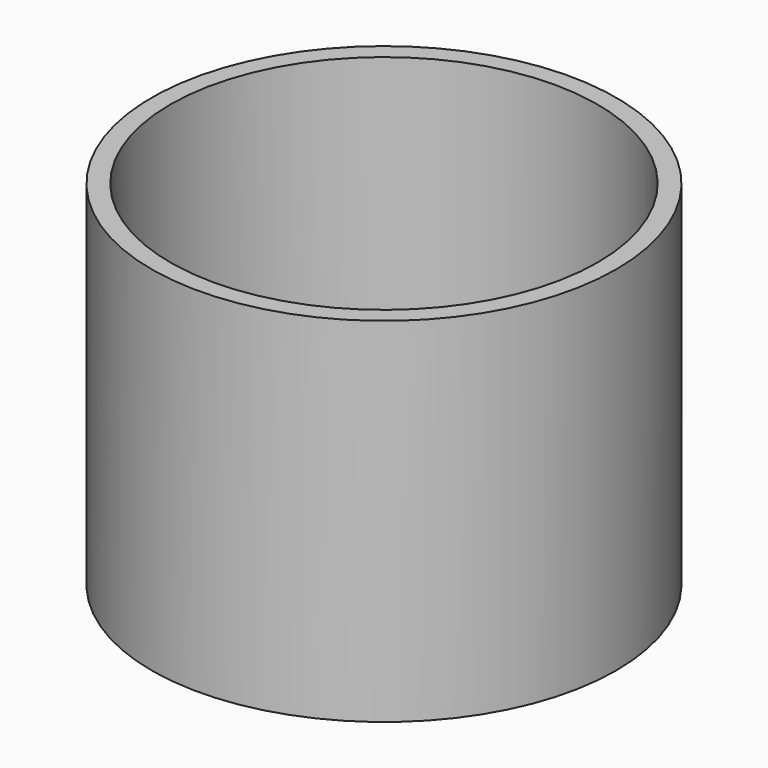
from build123d import *

# Parameters (mm, degrees)
F0_R     = 63.5
F1_DEPTH = 48.26
F2_R     = 58.42
F3_DEPTH = 50.8


with BuildPart() as f1:
    # F0 (on Top) → F1 (new body, symmetric)
    with BuildSketch(Plane.XY):
        Circle(F0_R)
    extrude(amount=F1_DEPTH, both=True)

    # F2 (on Top) → F3 (cut, symmetric)
    with BuildSketch(Plane.XY):
        Circle(F2_R)
    extrude(amount=F3_DEPTH, both=True, mode=Mode.SUBTRACT)


solid = f1.part
